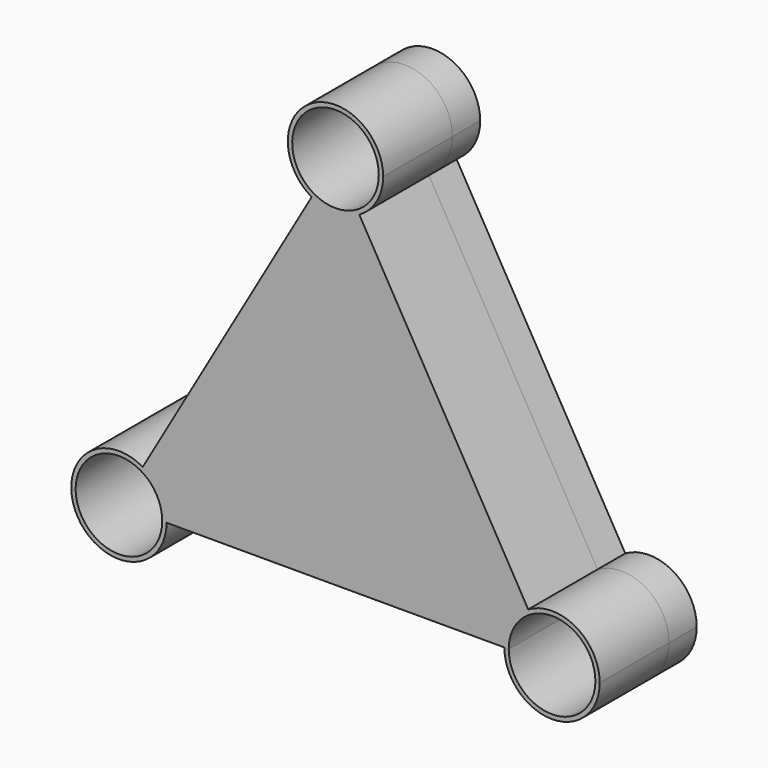
from build123d import *

# Parameters (mm, degrees)
F1_DEPTH = 100
F2_DEPTH = 40


with BuildPart() as f1:
    # F0 (on Front) → F1 (new body)
    with BuildSketch(Plane.XZ):
        with BuildLine():
            ThreePointArc((-222.4925176197, -96.6932102265), (-297.6443570709, -171.8450496777), (-194.9850352394, -144.3375672974))
            Line((-194.9850352394, -144.3375672974), (-200, -144.3375672974))
            ThreePointArc((-200, -144.3375672974), (-293.3012701892, -169.3375672974), (-225, -101.0362971082))
            Line((-225, -101.0362971082), (-222.4925176197, -96.6932102265))
        make_face()
        with BuildLine():
            Line((-202.3556429291, -116.8300849171), (0, 0))
            Line((0, 0), (-125, 72.1687836487))
            Line((-125, 72.1687836487), (-222.4925176197, -96.6932102265))
            ThreePointArc((-222.4925176197, -96.6932102265), (-211.0985453511, -105.4361126485), (-202.3556429291, -116.8300849171))
        make_face()
        with BuildLine():
            Line((-194.9850352394, -144.3375672974), (0, -144.3375672974))
            Line((0, -144.3375672974), (0, 0))
            Line((0, 0), (-202.3556429291, -116.8300849171))
            ThreePointArc((-202.3556429291, -116.8300849171), (-196.8596247054, -130.0986466517), (-194.9850352394, -144.3375672974))
        make_face()
        with BuildLine():
            Line((-206.6987298108, -119.3375672974), (-202.3556429291, -116.8300849171))
            ThreePointArc((-202.3556429291, -116.8300849171), (-211.0985453511, -105.4361126485), (-222.4925176197, -96.6932102265))
            Line((-222.4925176197, -96.6932102265), (-225, -101.0362971082))
            ThreePointArc((-225, -101.0362971082), (-214.6446609407, -108.9822282381), (-206.6987298108, -119.3375672974))
        make_face()
        with BuildLine():
            Line((-200, -144.3375672974), (-194.9850352394, -144.3375672974))
            ThreePointArc((-194.9850352394, -144.3375672974), (-196.8596247054, -130.0986466517), (-202.3556429291, -116.8300849171))
            Line((-202.3556429291, -116.8300849171), (-206.6987298108, -119.3375672974))
            ThreePointArc((-206.6987298108, -119.3375672974), (-201.7037086855, -131.3966150423), (-200, -144.3375672974))
        make_face()
        with BuildLine():
            Line((0, 0), (0, -144.3375672974))
            Line((0, -144.3375672974), (194.9945565085, -144.3375672974))
            ThreePointArc((194.9945565085, -144.3375672974), (196.8688215451, -130.1011109375), (202.36388859, -116.8348455517))
            Line((202.36388859, -116.8348455517), (0, 0))
        make_face()
        with BuildLine():
            Line((125, 72.1687836487), (0, 0))
            Line((0, 0), (202.36388859, -116.8348455517))
            ThreePointArc((202.36388859, -116.8348455517), (211.105277905, -105.4428452024), (222.4972782543, -96.7014558874))
            Line((222.4972782543, -96.7014558874), (125, 72.1687836487))
        make_face()
        with BuildLine():
            Line((0, 233.6576304529), (0, 0))
            Line((0, 0), (125, 72.1687836487))
            Line((125, 72.1687836487), (27.5087520709, 241.0285783551))
            ThreePointArc((27.5087520709, 241.0285783551), (14.2395778859, 235.5323064462), (0, 233.6576304529))
        make_face()
        with BuildLine():
            ThreePointArc((222.4972782543, -96.7014558874), (211.105277905, -105.4428452024), (202.36388859, -116.8348455517))
            Line((202.36388859, -116.8348455517), (206.6809069942, -119.3272772894))
            ThreePointArc((206.6809069942, -119.3272772894), (214.6301086719, -108.9676759693), (224.989709992, -101.0184742916))
            Line((224.989709992, -101.0184742916), (222.4972782543, -96.7014558874))
        make_face()
        with BuildLine():
            ThreePointArc((202.36388859, -116.8348455517), (196.8688215451, -130.1011109375), (194.9945565085, -144.3375672974))
            Line((194.9945565085, -144.3375672974), (199.9794199841, -144.3375672974))
            ThreePointArc((199.9794199841, -144.3375672974), (201.6838299167, -131.3912885422), (206.6809069942, -119.3272772894))
            Line((206.6809069942, -119.3272772894), (202.36388859, -116.8348455517))
        make_face()
        with BuildLine():
            Line((199.9794199841, -144.3375672974), (194.9945565085, -144.3375672974))
            ThreePointArc((194.9945565085, -144.3375672974), (250, -199.3430107889), (305.0054434915, -144.3375672974))
            ThreePointArc((305.0054434915, -144.3375672974), (277.5027217457, -96.7014558874), (222.4972782543, -96.7014558874))
            Line((222.4972782543, -96.7014558874), (224.989709992, -101.0184742916))
            ThreePointArc((224.989709992, -101.0184742916), (275.010290008, -101.0184742916), (300.0205800159, -144.3375672974))
            ThreePointArc((300.0205800159, -144.3375672974), (250, -194.3581473133), (199.9794199841, -144.3375672974))
        make_face()
        with BuildLine():
            Line((-125, 72.1687836487), (0, 0))
            Line((0, 0), (0, 233.6576304529))
            ThreePointArc((0, 233.6576304529), (-14.2395778859, 235.5323064462), (-27.5087520709, 241.0285783551))
            Line((-27.5087520709, 241.0285783551), (-125, 72.1687836487))
        make_face()
        with BuildLine():
            ThreePointArc((55.0175041419, 288.6751345948), (-27.5087520709, 336.3216908345), (-27.5087520709, 241.0285783551))
            Line((-27.5087520709, 241.0285783551), (-24.9893809816, 245.392257085))
            ThreePointArc((-24.9893809816, 245.392257085), (-24.9893809816, 331.9580121046), (49.9787619632, 288.6751345948))
            ThreePointArc((49.9787619632, 288.6751345948), (43.2828775098, 263.6857536132), (24.9893809816, 245.392257085))
            Line((24.9893809816, 245.392257085), (27.5087520709, 241.0285783551))
            ThreePointArc((27.5087520709, 241.0285783551), (47.6465562397, 261.1663825239), (55.0175041419, 288.6751345948))
        make_face()
        with BuildLine():
            Line((0, 238.6963726316), (0, 233.6576304529))
            ThreePointArc((0, 233.6576304529), (14.2395778859, 235.5323064462), (27.5087520709, 241.0285783551))
            Line((27.5087520709, 241.0285783551), (24.9893809816, 245.392257085))
            ThreePointArc((24.9893809816, 245.392257085), (12.9354554467, 240.3993576486), (0, 238.6963726316))
        make_face()
        with BuildLine():
            ThreePointArc((-27.5087520709, 241.0285783551), (-14.2395778859, 235.5323064462), (0, 233.6576304529))
            Line((0, 233.6576304529), (0, 238.6963726316))
            ThreePointArc((0, 238.6963726316), (-12.9354554467, 240.3993576486), (-24.9893809816, 245.392257085))
            Line((-24.9893809816, 245.392257085), (-27.5087520709, 241.0285783551))
        make_face()
    extrude(amount=F1_DEPTH)

    # F0 (on Front) → F2 (join)
    with BuildSketch(Plane.XZ):
        with BuildLine():
            Line((-24.9893809816, 245.392257085), (0, 288.6751345948))
            Line((0, 288.6751345948), (24.9893809816, 245.392257085))
            ThreePointArc((24.9893809816, 245.392257085), (43.2828775098, 263.6857536132), (49.9787619632, 288.6751345948))
            ThreePointArc((49.9787619632, 288.6751345948), (-24.9893809816, 331.9580121046), (-24.9893809816, 245.392257085))
        make_face()
        with BuildLine():
            Line((0, 233.6576304529), (0, 0))
            Line((0, 0), (125, 72.1687836487))
            Line((125, 72.1687836487), (27.5087520709, 241.0285783551))
            ThreePointArc((27.5087520709, 241.0285783551), (14.2395778859, 235.5323064462), (0, 233.6576304529))
        make_face()
        with BuildLine():
            Line((-125, 72.1687836487), (0, 0))
            Line((0, 0), (0, 233.6576304529))
            ThreePointArc((0, 233.6576304529), (-14.2395778859, 235.5323064462), (-27.5087520709, 241.0285783551))
            Line((-27.5087520709, 241.0285783551), (-125, 72.1687836487))
        make_face()
        with BuildLine():
            ThreePointArc((-24.9893809816, 245.392257085), (-12.9354554467, 240.3993576486), (0, 238.6963726316))
            Line((0, 238.6963726316), (0, 288.6751345948))
            Line((0, 288.6751345948), (-24.9893809816, 245.392257085))
        make_face()
        with BuildLine():
            Line((0, 288.6751345948), (0, 238.6963726316))
            ThreePointArc((0, 238.6963726316), (12.9354554467, 240.3993576486), (24.9893809816, 245.392257085))
            Line((24.9893809816, 245.392257085), (0, 288.6751345948))
        make_face()
        with BuildLine():
            Line((0, 238.6963726316), (0, 233.6576304529))
            ThreePointArc((0, 233.6576304529), (14.2395778859, 235.5323064462), (27.5087520709, 241.0285783551))
            Line((27.5087520709, 241.0285783551), (24.9893809816, 245.392257085))
            ThreePointArc((24.9893809816, 245.392257085), (12.9354554467, 240.3993576486), (0, 238.6963726316))
        make_face()
        with BuildLine():
            ThreePointArc((-27.5087520709, 241.0285783551), (-14.2395778859, 235.5323064462), (0, 233.6576304529))
            Line((0, 233.6576304529), (0, 238.6963726316))
            ThreePointArc((0, 238.6963726316), (-12.9354554467, 240.3993576486), (-24.9893809816, 245.392257085))
            Line((-24.9893809816, 245.392257085), (-27.5087520709, 241.0285783551))
        make_face()
        with BuildLine():
            ThreePointArc((55.0175041419, 288.6751345948), (-27.5087520709, 336.3216908345), (-27.5087520709, 241.0285783551))
            Line((-27.5087520709, 241.0285783551), (-24.9893809816, 245.392257085))
            ThreePointArc((-24.9893809816, 245.392257085), (-24.9893809816, 331.9580121046), (49.9787619632, 288.6751345948))
            ThreePointArc((49.9787619632, 288.6751345948), (43.2828775098, 263.6857536132), (24.9893809816, 245.392257085))
            Line((24.9893809816, 245.392257085), (27.5087520709, 241.0285783551))
            ThreePointArc((27.5087520709, 241.0285783551), (47.6465562397, 261.1663825239), (55.0175041419, 288.6751345948))
        make_face()
        with BuildLine():
            Line((-202.3556429291, -116.8300849171), (0, 0))
            Line((0, 0), (-125, 72.1687836487))
            Line((-125, 72.1687836487), (-222.4925176197, -96.6932102265))
            ThreePointArc((-222.4925176197, -96.6932102265), (-211.0985453511, -105.4361126485), (-202.3556429291, -116.8300849171))
        make_face()
        with BuildLine():
            Line((-194.9850352394, -144.3375672974), (0, -144.3375672974))
            Line((0, -144.3375672974), (0, 0))
            Line((0, 0), (-202.3556429291, -116.8300849171))
            ThreePointArc((-202.3556429291, -116.8300849171), (-196.8596247054, -130.0986466517), (-194.9850352394, -144.3375672974))
        make_face()
        with BuildLine():
            Line((0, 0), (0, -144.3375672974))
            Line((0, -144.3375672974), (194.9945565085, -144.3375672974))
            ThreePointArc((194.9945565085, -144.3375672974), (196.8688215451, -130.1011109375), (202.36388859, -116.8348455517))
            Line((202.36388859, -116.8348455517), (0, 0))
        make_face()
        with BuildLine():
            Line((125, 72.1687836487), (0, 0))
            Line((0, 0), (202.36388859, -116.8348455517))
            ThreePointArc((202.36388859, -116.8348455517), (211.105277905, -105.4428452024), (222.4972782543, -96.7014558874))
            Line((222.4972782543, -96.7014558874), (125, 72.1687836487))
        make_face()
        with BuildLine():
            Line((206.6809069942, -119.3272772894), (250, -144.3375672974))
            Line((250, -144.3375672974), (224.989709992, -101.0184742916))
            ThreePointArc((224.989709992, -101.0184742916), (214.6301086719, -108.9676759693), (206.6809069942, -119.3272772894))
        make_face()
        with BuildLine():
            Line((250, -144.3375672974), (199.9794199841, -144.3375672974))
            ThreePointArc((199.9794199841, -144.3375672974), (250, -194.3581473133), (300.0205800159, -144.3375672974))
            ThreePointArc((300.0205800159, -144.3375672974), (275.010290008, -101.0184742916), (224.989709992, -101.0184742916))
            Line((224.989709992, -101.0184742916), (250, -144.3375672974))
        make_face()
        with BuildLine():
            Line((199.9794199841, -144.3375672974), (194.9945565085, -144.3375672974))
            ThreePointArc((194.9945565085, -144.3375672974), (250, -199.3430107889), (305.0054434915, -144.3375672974))
            ThreePointArc((305.0054434915, -144.3375672974), (277.5027217457, -96.7014558874), (222.4972782543, -96.7014558874))
            Line((222.4972782543, -96.7014558874), (224.989709992, -101.0184742916))
            ThreePointArc((224.989709992, -101.0184742916), (275.010290008, -101.0184742916), (300.0205800159, -144.3375672974))
            ThreePointArc((300.0205800159, -144.3375672974), (250, -194.3581473133), (199.9794199841, -144.3375672974))
        make_face()
        with BuildLine():
            ThreePointArc((222.4972782543, -96.7014558874), (211.105277905, -105.4428452024), (202.36388859, -116.8348455517))
            Line((202.36388859, -116.8348455517), (206.6809069942, -119.3272772894))
            ThreePointArc((206.6809069942, -119.3272772894), (214.6301086719, -108.9676759693), (224.989709992, -101.0184742916))
            Line((224.989709992, -101.0184742916), (222.4972782543, -96.7014558874))
        make_face()
        with BuildLine():
            ThreePointArc((202.36388859, -116.8348455517), (196.8688215451, -130.1011109375), (194.9945565085, -144.3375672974))
            Line((194.9945565085, -144.3375672974), (199.9794199841, -144.3375672974))
            ThreePointArc((199.9794199841, -144.3375672974), (201.6838299167, -131.3912885422), (206.6809069942, -119.3272772894))
            Line((206.6809069942, -119.3272772894), (202.36388859, -116.8348455517))
        make_face()
        with BuildLine():
            ThreePointArc((206.6809069942, -119.3272772894), (201.6838299167, -131.3912885422), (199.9794199841, -144.3375672974))
            Line((199.9794199841, -144.3375672974), (250, -144.3375672974))
            Line((250, -144.3375672974), (206.6809069942, -119.3272772894))
        make_face()
        with BuildLine():
            Line((-225, -101.0362971082), (-250, -144.3375672974))
            Line((-250, -144.3375672974), (-206.6987298108, -119.3375672974))
            ThreePointArc((-206.6987298108, -119.3375672974), (-214.6446609407, -108.9822282381), (-225, -101.0362971082))
        make_face()
        with BuildLine():
            Line((-206.6987298108, -119.3375672974), (-202.3556429291, -116.8300849171))
            ThreePointArc((-202.3556429291, -116.8300849171), (-211.0985453511, -105.4361126485), (-222.4925176197, -96.6932102265))
            Line((-222.4925176197, -96.6932102265), (-225, -101.0362971082))
            ThreePointArc((-225, -101.0362971082), (-214.6446609407, -108.9822282381), (-206.6987298108, -119.3375672974))
        make_face()
        with BuildLine():
            ThreePointArc((-222.4925176197, -96.6932102265), (-297.6443570709, -171.8450496777), (-194.9850352394, -144.3375672974))
            Line((-194.9850352394, -144.3375672974), (-200, -144.3375672974))
            ThreePointArc((-200, -144.3375672974), (-293.3012701892, -169.3375672974), (-225, -101.0362971082))
            Line((-225, -101.0362971082), (-222.4925176197, -96.6932102265))
        make_face()
        with BuildLine():
            ThreePointArc((-225, -101.0362971082), (-293.3012701892, -169.3375672974), (-200, -144.3375672974))
            Line((-200, -144.3375672974), (-250, -144.3375672974))
            Line((-250, -144.3375672974), (-225, -101.0362971082))
        make_face()
        with BuildLine():
            Line((-250, -144.3375672974), (-200, -144.3375672974))
            ThreePointArc((-200, -144.3375672974), (-201.7037086855, -131.3966150423), (-206.6987298108, -119.3375672974))
            Line((-206.6987298108, -119.3375672974), (-250, -144.3375672974))
        make_face()
        with BuildLine():
            Line((-200, -144.3375672974), (-194.9850352394, -144.3375672974))
            ThreePointArc((-194.9850352394, -144.3375672974), (-196.8596247054, -130.0986466517), (-202.3556429291, -116.8300849171))
            Line((-202.3556429291, -116.8300849171), (-206.6987298108, -119.3375672974))
            ThreePointArc((-206.6987298108, -119.3375672974), (-201.7037086855, -131.3966150423), (-200, -144.3375672974))
        make_face()
    extrude(amount=-F2_DEPTH)


solid = f1.part
